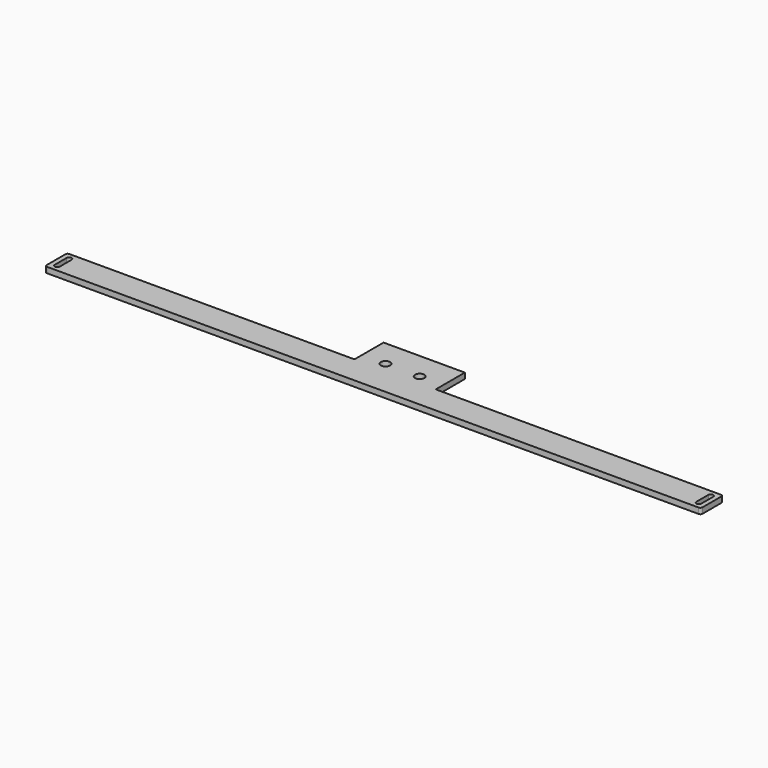
from build123d import *

# Parameters (mm, degrees)
SKETCH_R  = 6.5
PAD_DEPTH = 8


with BuildPart() as part:
    # Sketch → Pad (new body)
    with BuildSketch(Plane.XY):
        with BuildLine():
            Line((-457, -40), (0, -40))
            Line((0, -40), (457, -40))
            ThreePointArc((457, -40), (459.12132, -39.12132), (460, -37))
            Line((460, -37), (460, -4))
            ThreePointArc((460, -4), (459.12132, -1.87868), (457, -1))
            Line((58, -1), (457, -1))
            Line((57, -1), (58, -1))
            Line((57, 50), (57, -1))
            Line((-57, 50), (57, 50))
            Line((-57, -1), (-57, 50))
            Line((-57, -1), (-58, -1))
            Line((-58, -1), (-457, -1))
            ThreePointArc((-457, -1), (-459.12132, -1.87868), (-460, -4))
            Line((-460, -37), (-460, -4))
            ThreePointArc((-460, -37), (-459.12132, -39.12132), (-457, -40))
        make_face()
        with Locations((-24, 12)):
            Circle(SKETCH_R, mode=Mode.SUBTRACT)
        with Locations((24, 12)):
            Circle(SKETCH_R, mode=Mode.SUBTRACT)
        with BuildLine():
            ThreePointArc((-453.5, -31), (-450, -34.5), (-446.5, -31))
            Line((-446.5, -31), (-446.5, -10))
            ThreePointArc((-446.5, -10), (-450, -6.5), (-453.5, -10))
            Line((-453.5, -31), (-453.5, -10))
        make_face(mode=Mode.SUBTRACT)
        with BuildLine():
            ThreePointArc((446.5, -31), (450, -34.5), (453.5, -31))
            Line((453.5, -31), (453.5, -10))
            ThreePointArc((453.5, -10), (450, -6.5), (446.5, -10))
            Line((446.5, -31), (446.5, -10))
        make_face(mode=Mode.SUBTRACT)
    extrude(amount=PAD_DEPTH)


solid = part.part
